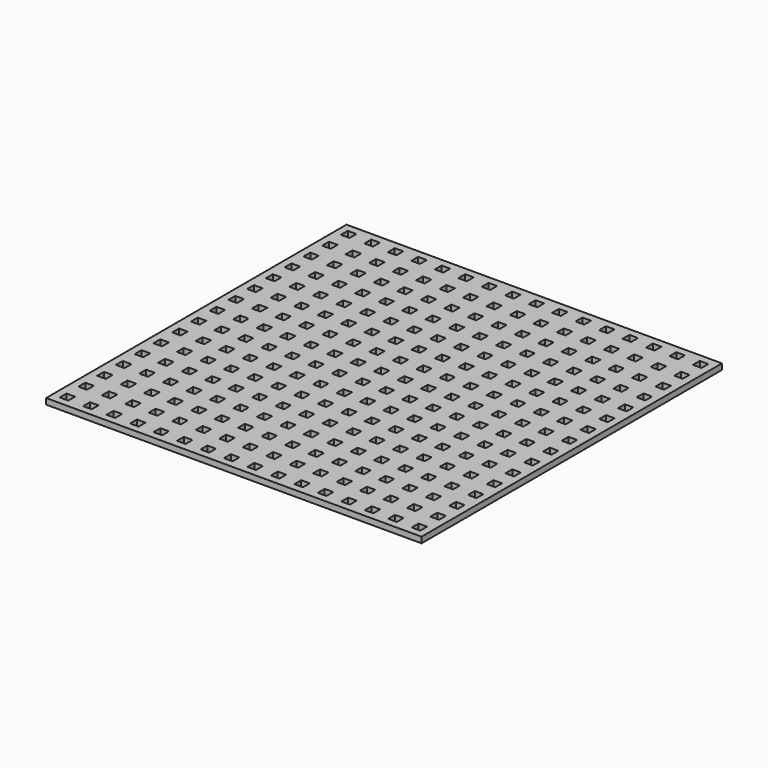
from build123d import *

# Parameters (mm, degrees)
F0_W     = 203.2
F0_H     = 203.2
F0_W_2   = 4.6228
F0_H_2   = 4.6228
F1_DEPTH = 3.175


with BuildPart() as f1:
    # F0 (on Top) → F1 (new body)
    with BuildSketch(Plane.XY):
        with Locations((18.344503, 5.013681)):
            Rectangle(F0_W, F0_H)
        with Locations((-76.765776, -90.287023)):
            Rectangle(F0_W_2, F0_H_2, mode=Mode.SUBTRACT)
        with Locations((-64.065776, -90.287023)):
            Rectangle(F0_W_2, F0_H_2, mode=Mode.SUBTRACT)
        with Locations((-76.778477, -77.58703)):
            Rectangle(F0_W_2, F0_H_2, mode=Mode.SUBTRACT)
        with Locations((-64.078477, -77.58703)):
            Rectangle(F0_W_2, F0_H_2, mode=Mode.SUBTRACT)
        with Locations((-51.365776, -90.287023)):
            Rectangle(F0_W_2, F0_H_2, mode=Mode.SUBTRACT)
        with Locations((-38.665776, -90.287023)):
            Rectangle(F0_W_2, F0_H_2, mode=Mode.SUBTRACT)
        with Locations((-51.378477, -77.58703)):
            Rectangle(F0_W_2, F0_H_2, mode=Mode.SUBTRACT)
        with Locations((-38.678477, -77.58703)):
            Rectangle(F0_W_2, F0_H_2, mode=Mode.SUBTRACT)
        with Locations((-76.791179, -64.887036)):
            Rectangle(F0_W_2, F0_H_2, mode=Mode.SUBTRACT)
        with Locations((-64.091179, -64.887036)):
            Rectangle(F0_W_2, F0_H_2, mode=Mode.SUBTRACT)
        with Locations((-76.80388, -52.187042)):
            Rectangle(F0_W_2, F0_H_2, mode=Mode.SUBTRACT)
        with Locations((-64.10388, -52.187042)):
            Rectangle(F0_W_2, F0_H_2, mode=Mode.SUBTRACT)
        with Locations((-51.391179, -64.887036)):
            Rectangle(F0_W_2, F0_H_2, mode=Mode.SUBTRACT)
        with Locations((-38.691179, -64.887036)):
            Rectangle(F0_W_2, F0_H_2, mode=Mode.SUBTRACT)
        with Locations((-51.40388, -52.187042)):
            Rectangle(F0_W_2, F0_H_2, mode=Mode.SUBTRACT)
        with Locations((-38.70388, -52.187042)):
            Rectangle(F0_W_2, F0_H_2, mode=Mode.SUBTRACT)
        with Locations((-25.965776, -90.287023)):
            Rectangle(F0_W_2, F0_H_2, mode=Mode.SUBTRACT)
        with Locations((-13.265776, -90.287023)):
            Rectangle(F0_W_2, F0_H_2, mode=Mode.SUBTRACT)
        with Locations((-25.978477, -77.58703)):
            Rectangle(F0_W_2, F0_H_2, mode=Mode.SUBTRACT)
        with Locations((-13.278477, -77.58703)):
            Rectangle(F0_W_2, F0_H_2, mode=Mode.SUBTRACT)
        with Locations((-0.565776, -90.287023)):
            Rectangle(F0_W_2, F0_H_2, mode=Mode.SUBTRACT)
        with Locations((12.134224, -90.287023)):
            Rectangle(F0_W_2, F0_H_2, mode=Mode.SUBTRACT)
        with Locations((-0.578477, -77.58703)):
            Rectangle(F0_W_2, F0_H_2, mode=Mode.SUBTRACT)
        with Locations((12.121523, -77.58703)):
            Rectangle(F0_W_2, F0_H_2, mode=Mode.SUBTRACT)
        with Locations((-25.991179, -64.887036)):
            Rectangle(F0_W_2, F0_H_2, mode=Mode.SUBTRACT)
        with Locations((-13.291179, -64.887036)):
            Rectangle(F0_W_2, F0_H_2, mode=Mode.SUBTRACT)
        with Locations((-26.00388, -52.187042)):
            Rectangle(F0_W_2, F0_H_2, mode=Mode.SUBTRACT)
        with Locations((-13.30388, -52.187042)):
            Rectangle(F0_W_2, F0_H_2, mode=Mode.SUBTRACT)
        with Locations((-0.591179, -64.887036)):
            Rectangle(F0_W_2, F0_H_2, mode=Mode.SUBTRACT)
        with Locations((12.108821, -64.887036)):
            Rectangle(F0_W_2, F0_H_2, mode=Mode.SUBTRACT)
        with Locations((-0.60388, -52.187042)):
            Rectangle(F0_W_2, F0_H_2, mode=Mode.SUBTRACT)
        with Locations((12.09612, -52.187042)):
            Rectangle(F0_W_2, F0_H_2, mode=Mode.SUBTRACT)
        with Locations((-76.816581, -39.487049)):
            Rectangle(F0_W_2, F0_H_2, mode=Mode.SUBTRACT)
        with Locations((-64.116581, -39.487049)):
            Rectangle(F0_W_2, F0_H_2, mode=Mode.SUBTRACT)
        with Locations((-76.829283, -26.787055)):
            Rectangle(F0_W_2, F0_H_2, mode=Mode.SUBTRACT)
        with Locations((-64.129283, -26.787055)):
            Rectangle(F0_W_2, F0_H_2, mode=Mode.SUBTRACT)
        with Locations((-51.416581, -39.487049)):
            Rectangle(F0_W_2, F0_H_2, mode=Mode.SUBTRACT)
        with Locations((-38.716581, -39.487049)):
            Rectangle(F0_W_2, F0_H_2, mode=Mode.SUBTRACT)
        with Locations((-51.429283, -26.787055)):
            Rectangle(F0_W_2, F0_H_2, mode=Mode.SUBTRACT)
        with Locations((-38.729283, -26.787055)):
            Rectangle(F0_W_2, F0_H_2, mode=Mode.SUBTRACT)
        with Locations((-76.841984, -14.087061)):
            Rectangle(F0_W_2, F0_H_2, mode=Mode.SUBTRACT)
        with Locations((-64.141984, -14.087061)):
            Rectangle(F0_W_2, F0_H_2, mode=Mode.SUBTRACT)
        with Locations((-76.854686, -1.387068)):
            Rectangle(F0_W_2, F0_H_2, mode=Mode.SUBTRACT)
        with Locations((-64.154686, -1.387068)):
            Rectangle(F0_W_2, F0_H_2, mode=Mode.SUBTRACT)
        with Locations((-51.441984, -14.087061)):
            Rectangle(F0_W_2, F0_H_2, mode=Mode.SUBTRACT)
        with Locations((-38.741984, -14.087061)):
            Rectangle(F0_W_2, F0_H_2, mode=Mode.SUBTRACT)
        with Locations((-51.454686, -1.387068)):
            Rectangle(F0_W_2, F0_H_2, mode=Mode.SUBTRACT)
        with Locations((-38.754686, -1.387068)):
            Rectangle(F0_W_2, F0_H_2, mode=Mode.SUBTRACT)
        with Locations((-26.016581, -39.487049)):
            Rectangle(F0_W_2, F0_H_2, mode=Mode.SUBTRACT)
        with Locations((-13.316581, -39.487049)):
            Rectangle(F0_W_2, F0_H_2, mode=Mode.SUBTRACT)
        with Locations((-26.029283, -26.787055)):
            Rectangle(F0_W_2, F0_H_2, mode=Mode.SUBTRACT)
        with Locations((-13.329283, -26.787055)):
            Rectangle(F0_W_2, F0_H_2, mode=Mode.SUBTRACT)
        with Locations((-0.616581, -39.487049)):
            Rectangle(F0_W_2, F0_H_2, mode=Mode.SUBTRACT)
        with Locations((12.083419, -39.487049)):
            Rectangle(F0_W_2, F0_H_2, mode=Mode.SUBTRACT)
        with Locations((-0.629283, -26.787055)):
            Rectangle(F0_W_2, F0_H_2, mode=Mode.SUBTRACT)
        with Locations((12.070717, -26.787055)):
            Rectangle(F0_W_2, F0_H_2, mode=Mode.SUBTRACT)
        with Locations((-26.041984, -14.087061)):
            Rectangle(F0_W_2, F0_H_2, mode=Mode.SUBTRACT)
        with Locations((-13.341984, -14.087061)):
            Rectangle(F0_W_2, F0_H_2, mode=Mode.SUBTRACT)
        with Locations((-26.054686, -1.387068)):
            Rectangle(F0_W_2, F0_H_2, mode=Mode.SUBTRACT)
        with Locations((-13.354686, -1.387068)):
            Rectangle(F0_W_2, F0_H_2, mode=Mode.SUBTRACT)
        with Locations((-0.641984, -14.087061)):
            Rectangle(F0_W_2, F0_H_2, mode=Mode.SUBTRACT)
        with Locations((12.058016, -14.087061)):
            Rectangle(F0_W_2, F0_H_2, mode=Mode.SUBTRACT)
        with Locations((-0.654686, -1.387068)):
            Rectangle(F0_W_2, F0_H_2, mode=Mode.SUBTRACT)
        with Locations((12.045314, -1.387068)):
            Rectangle(F0_W_2, F0_H_2, mode=Mode.SUBTRACT)
        with Locations((24.834224, -90.287023)):
            Rectangle(F0_W_2, F0_H_2, mode=Mode.SUBTRACT)
        with Locations((37.534224, -90.287023)):
            Rectangle(F0_W_2, F0_H_2, mode=Mode.SUBTRACT)
        with Locations((24.821523, -77.58703)):
            Rectangle(F0_W_2, F0_H_2, mode=Mode.SUBTRACT)
        with Locations((37.521523, -77.58703)):
            Rectangle(F0_W_2, F0_H_2, mode=Mode.SUBTRACT)
        with Locations((50.234224, -90.287023)):
            Rectangle(F0_W_2, F0_H_2, mode=Mode.SUBTRACT)
        with Locations((62.934224, -90.287023)):
            Rectangle(F0_W_2, F0_H_2, mode=Mode.SUBTRACT)
        with Locations((50.221523, -77.58703)):
            Rectangle(F0_W_2, F0_H_2, mode=Mode.SUBTRACT)
        with Locations((62.921523, -77.58703)):
            Rectangle(F0_W_2, F0_H_2, mode=Mode.SUBTRACT)
        with Locations((24.808821, -64.887036)):
            Rectangle(F0_W_2, F0_H_2, mode=Mode.SUBTRACT)
        with Locations((37.508821, -64.887036)):
            Rectangle(F0_W_2, F0_H_2, mode=Mode.SUBTRACT)
        with Locations((24.79612, -52.187042)):
            Rectangle(F0_W_2, F0_H_2, mode=Mode.SUBTRACT)
        with Locations((37.49612, -52.187042)):
            Rectangle(F0_W_2, F0_H_2, mode=Mode.SUBTRACT)
        with Locations((50.208821, -64.887036)):
            Rectangle(F0_W_2, F0_H_2, mode=Mode.SUBTRACT)
        with Locations((62.908821, -64.887036)):
            Rectangle(F0_W_2, F0_H_2, mode=Mode.SUBTRACT)
        with Locations((50.19612, -52.187042)):
            Rectangle(F0_W_2, F0_H_2, mode=Mode.SUBTRACT)
        with Locations((62.89612, -52.187042)):
            Rectangle(F0_W_2, F0_H_2, mode=Mode.SUBTRACT)
        with Locations((75.634224, -90.287023)):
            Rectangle(F0_W_2, F0_H_2, mode=Mode.SUBTRACT)
        with Locations((88.334224, -90.287023)):
            Rectangle(F0_W_2, F0_H_2, mode=Mode.SUBTRACT)
        with Locations((75.621523, -77.58703)):
            Rectangle(F0_W_2, F0_H_2, mode=Mode.SUBTRACT)
        with Locations((88.321523, -77.58703)):
            Rectangle(F0_W_2, F0_H_2, mode=Mode.SUBTRACT)
        with Locations((101.034224, -90.287023)):
            Rectangle(F0_W_2, F0_H_2, mode=Mode.SUBTRACT)
        with Locations((113.734224, -90.287023)):
            Rectangle(F0_W_2, F0_H_2, mode=Mode.SUBTRACT)
        with Locations((101.021523, -77.58703)):
            Rectangle(F0_W_2, F0_H_2, mode=Mode.SUBTRACT)
        with Locations((113.721523, -77.58703)):
            Rectangle(F0_W_2, F0_H_2, mode=Mode.SUBTRACT)
        with Locations((75.608821, -64.887036)):
            Rectangle(F0_W_2, F0_H_2, mode=Mode.SUBTRACT)
        with Locations((88.308821, -64.887036)):
            Rectangle(F0_W_2, F0_H_2, mode=Mode.SUBTRACT)
        with Locations((75.59612, -52.187042)):
            Rectangle(F0_W_2, F0_H_2, mode=Mode.SUBTRACT)
        with Locations((88.29612, -52.187042)):
            Rectangle(F0_W_2, F0_H_2, mode=Mode.SUBTRACT)
        with Locations((101.008821, -64.887036)):
            Rectangle(F0_W_2, F0_H_2, mode=Mode.SUBTRACT)
        with Locations((113.708821, -64.887036)):
            Rectangle(F0_W_2, F0_H_2, mode=Mode.SUBTRACT)
        with Locations((100.99612, -52.187042)):
            Rectangle(F0_W_2, F0_H_2, mode=Mode.SUBTRACT)
        with Locations((113.69612, -52.187042)):
            Rectangle(F0_W_2, F0_H_2, mode=Mode.SUBTRACT)
        with Locations((24.783419, -39.487049)):
            Rectangle(F0_W_2, F0_H_2, mode=Mode.SUBTRACT)
        with Locations((37.483419, -39.487049)):
            Rectangle(F0_W_2, F0_H_2, mode=Mode.SUBTRACT)
        with Locations((24.770717, -26.787055)):
            Rectangle(F0_W_2, F0_H_2, mode=Mode.SUBTRACT)
        with Locations((37.470717, -26.787055)):
            Rectangle(F0_W_2, F0_H_2, mode=Mode.SUBTRACT)
        with Locations((50.183419, -39.487049)):
            Rectangle(F0_W_2, F0_H_2, mode=Mode.SUBTRACT)
        with Locations((62.883419, -39.487049)):
            Rectangle(F0_W_2, F0_H_2, mode=Mode.SUBTRACT)
        with Locations((50.170717, -26.787055)):
            Rectangle(F0_W_2, F0_H_2, mode=Mode.SUBTRACT)
        with Locations((62.870717, -26.787055)):
            Rectangle(F0_W_2, F0_H_2, mode=Mode.SUBTRACT)
        with Locations((24.758016, -14.087061)):
            Rectangle(F0_W_2, F0_H_2, mode=Mode.SUBTRACT)
        with Locations((37.458016, -14.087061)):
            Rectangle(F0_W_2, F0_H_2, mode=Mode.SUBTRACT)
        with Locations((24.745314, -1.387068)):
            Rectangle(F0_W_2, F0_H_2, mode=Mode.SUBTRACT)
        with Locations((37.445314, -1.387068)):
            Rectangle(F0_W_2, F0_H_2, mode=Mode.SUBTRACT)
        with Locations((50.158016, -14.087061)):
            Rectangle(F0_W_2, F0_H_2, mode=Mode.SUBTRACT)
        with Locations((62.858016, -14.087061)):
            Rectangle(F0_W_2, F0_H_2, mode=Mode.SUBTRACT)
        with Locations((50.145314, -1.387068)):
            Rectangle(F0_W_2, F0_H_2, mode=Mode.SUBTRACT)
        with Locations((62.845314, -1.387068)):
            Rectangle(F0_W_2, F0_H_2, mode=Mode.SUBTRACT)
        with Locations((75.583419, -39.487049)):
            Rectangle(F0_W_2, F0_H_2, mode=Mode.SUBTRACT)
        with Locations((88.283419, -39.487049)):
            Rectangle(F0_W_2, F0_H_2, mode=Mode.SUBTRACT)
        with Locations((75.570717, -26.787055)):
            Rectangle(F0_W_2, F0_H_2, mode=Mode.SUBTRACT)
        with Locations((88.270717, -26.787055)):
            Rectangle(F0_W_2, F0_H_2, mode=Mode.SUBTRACT)
        with Locations((100.983419, -39.487049)):
            Rectangle(F0_W_2, F0_H_2, mode=Mode.SUBTRACT)
        with Locations((113.683419, -39.487049)):
            Rectangle(F0_W_2, F0_H_2, mode=Mode.SUBTRACT)
        with Locations((100.970717, -26.787055)):
            Rectangle(F0_W_2, F0_H_2, mode=Mode.SUBTRACT)
        with Locations((113.670717, -26.787055)):
            Rectangle(F0_W_2, F0_H_2, mode=Mode.SUBTRACT)
        with Locations((75.558016, -14.087061)):
            Rectangle(F0_W_2, F0_H_2, mode=Mode.SUBTRACT)
        with Locations((88.258016, -14.087061)):
            Rectangle(F0_W_2, F0_H_2, mode=Mode.SUBTRACT)
        with Locations((75.545314, -1.387068)):
            Rectangle(F0_W_2, F0_H_2, mode=Mode.SUBTRACT)
        with Locations((88.245314, -1.387068)):
            Rectangle(F0_W_2, F0_H_2, mode=Mode.SUBTRACT)
        with Locations((100.958016, -14.087061)):
            Rectangle(F0_W_2, F0_H_2, mode=Mode.SUBTRACT)
        with Locations((113.658016, -14.087061)):
            Rectangle(F0_W_2, F0_H_2, mode=Mode.SUBTRACT)
        with Locations((100.945314, -1.387068)):
            Rectangle(F0_W_2, F0_H_2, mode=Mode.SUBTRACT)
        with Locations((113.645314, -1.387068)):
            Rectangle(F0_W_2, F0_H_2, mode=Mode.SUBTRACT)
        with Locations((-76.867387, 11.312926)):
            Rectangle(F0_W_2, F0_H_2, mode=Mode.SUBTRACT)
        with Locations((-64.167387, 11.312926)):
            Rectangle(F0_W_2, F0_H_2, mode=Mode.SUBTRACT)
        with Locations((-76.880089, 24.01292)):
            Rectangle(F0_W_2, F0_H_2, mode=Mode.SUBTRACT)
        with Locations((-64.180089, 24.01292)):
            Rectangle(F0_W_2, F0_H_2, mode=Mode.SUBTRACT)
        with Locations((-51.467387, 11.312926)):
            Rectangle(F0_W_2, F0_H_2, mode=Mode.SUBTRACT)
        with Locations((-38.767387, 11.312926)):
            Rectangle(F0_W_2, F0_H_2, mode=Mode.SUBTRACT)
        with Locations((-51.480089, 24.01292)):
            Rectangle(F0_W_2, F0_H_2, mode=Mode.SUBTRACT)
        with Locations((-38.780089, 24.01292)):
            Rectangle(F0_W_2, F0_H_2, mode=Mode.SUBTRACT)
        with Locations((-76.89279, 36.712913)):
            Rectangle(F0_W_2, F0_H_2, mode=Mode.SUBTRACT)
        with Locations((-64.19279, 36.712913)):
            Rectangle(F0_W_2, F0_H_2, mode=Mode.SUBTRACT)
        with Locations((-76.905491, 49.412907)):
            Rectangle(F0_W_2, F0_H_2, mode=Mode.SUBTRACT)
        with Locations((-64.205491, 49.412907)):
            Rectangle(F0_W_2, F0_H_2, mode=Mode.SUBTRACT)
        with Locations((-51.49279, 36.712913)):
            Rectangle(F0_W_2, F0_H_2, mode=Mode.SUBTRACT)
        with Locations((-38.79279, 36.712913)):
            Rectangle(F0_W_2, F0_H_2, mode=Mode.SUBTRACT)
        with Locations((-51.505491, 49.412907)):
            Rectangle(F0_W_2, F0_H_2, mode=Mode.SUBTRACT)
        with Locations((-38.805491, 49.412907)):
            Rectangle(F0_W_2, F0_H_2, mode=Mode.SUBTRACT)
        with Locations((-26.067387, 11.312926)):
            Rectangle(F0_W_2, F0_H_2, mode=Mode.SUBTRACT)
        with Locations((-13.367387, 11.312926)):
            Rectangle(F0_W_2, F0_H_2, mode=Mode.SUBTRACT)
        with Locations((-26.080089, 24.01292)):
            Rectangle(F0_W_2, F0_H_2, mode=Mode.SUBTRACT)
        with Locations((-13.380089, 24.01292)):
            Rectangle(F0_W_2, F0_H_2, mode=Mode.SUBTRACT)
        with Locations((-0.667387, 11.312926)):
            Rectangle(F0_W_2, F0_H_2, mode=Mode.SUBTRACT)
        with Locations((12.032613, 11.312926)):
            Rectangle(F0_W_2, F0_H_2, mode=Mode.SUBTRACT)
        with Locations((-0.680089, 24.01292)):
            Rectangle(F0_W_2, F0_H_2, mode=Mode.SUBTRACT)
        with Locations((12.019911, 24.01292)):
            Rectangle(F0_W_2, F0_H_2, mode=Mode.SUBTRACT)
        with Locations((-26.09279, 36.712913)):
            Rectangle(F0_W_2, F0_H_2, mode=Mode.SUBTRACT)
        with Locations((-13.39279, 36.712913)):
            Rectangle(F0_W_2, F0_H_2, mode=Mode.SUBTRACT)
        with Locations((-26.105491, 49.412907)):
            Rectangle(F0_W_2, F0_H_2, mode=Mode.SUBTRACT)
        with Locations((-13.405491, 49.412907)):
            Rectangle(F0_W_2, F0_H_2, mode=Mode.SUBTRACT)
        with Locations((-0.69279, 36.712913)):
            Rectangle(F0_W_2, F0_H_2, mode=Mode.SUBTRACT)
        with Locations((12.00721, 36.712913)):
            Rectangle(F0_W_2, F0_H_2, mode=Mode.SUBTRACT)
        with Locations((-0.705491, 49.412907)):
            Rectangle(F0_W_2, F0_H_2, mode=Mode.SUBTRACT)
        with Locations((11.994509, 49.412907)):
            Rectangle(F0_W_2, F0_H_2, mode=Mode.SUBTRACT)
        with Locations((-76.918193, 62.112901)):
            Rectangle(F0_W_2, F0_H_2, mode=Mode.SUBTRACT)
        with Locations((-64.218193, 62.112901)):
            Rectangle(F0_W_2, F0_H_2, mode=Mode.SUBTRACT)
        with Locations((-76.930894, 74.812894)):
            Rectangle(F0_W_2, F0_H_2, mode=Mode.SUBTRACT)
        with Locations((-64.230894, 74.812894)):
            Rectangle(F0_W_2, F0_H_2, mode=Mode.SUBTRACT)
        with Locations((-51.518193, 62.112901)):
            Rectangle(F0_W_2, F0_H_2, mode=Mode.SUBTRACT)
        with Locations((-38.818193, 62.112901)):
            Rectangle(F0_W_2, F0_H_2, mode=Mode.SUBTRACT)
        with Locations((-51.530894, 74.812894)):
            Rectangle(F0_W_2, F0_H_2, mode=Mode.SUBTRACT)
        with Locations((-38.830894, 74.812894)):
            Rectangle(F0_W_2, F0_H_2, mode=Mode.SUBTRACT)
        with Locations((-76.943596, 87.512888)):
            Rectangle(F0_W_2, F0_H_2, mode=Mode.SUBTRACT)
        with Locations((-64.243596, 87.512888)):
            Rectangle(F0_W_2, F0_H_2, mode=Mode.SUBTRACT)
        with Locations((-76.956297, 100.212881)):
            Rectangle(F0_W_2, F0_H_2, mode=Mode.SUBTRACT)
        with Locations((-64.256297, 100.212881)):
            Rectangle(F0_W_2, F0_H_2, mode=Mode.SUBTRACT)
        with Locations((-51.543596, 87.512888)):
            Rectangle(F0_W_2, F0_H_2, mode=Mode.SUBTRACT)
        with Locations((-38.843596, 87.512888)):
            Rectangle(F0_W_2, F0_H_2, mode=Mode.SUBTRACT)
        with Locations((-51.556297, 100.212881)):
            Rectangle(F0_W_2, F0_H_2, mode=Mode.SUBTRACT)
        with Locations((-38.856297, 100.212881)):
            Rectangle(F0_W_2, F0_H_2, mode=Mode.SUBTRACT)
        with Locations((-26.118193, 62.112901)):
            Rectangle(F0_W_2, F0_H_2, mode=Mode.SUBTRACT)
        with Locations((-13.418193, 62.112901)):
            Rectangle(F0_W_2, F0_H_2, mode=Mode.SUBTRACT)
        with Locations((-26.130894, 74.812894)):
            Rectangle(F0_W_2, F0_H_2, mode=Mode.SUBTRACT)
        with Locations((-13.430894, 74.812894)):
            Rectangle(F0_W_2, F0_H_2, mode=Mode.SUBTRACT)
        with Locations((-0.718193, 62.112901)):
            Rectangle(F0_W_2, F0_H_2, mode=Mode.SUBTRACT)
        with Locations((11.981807, 62.112901)):
            Rectangle(F0_W_2, F0_H_2, mode=Mode.SUBTRACT)
        with Locations((-0.730894, 74.812894)):
            Rectangle(F0_W_2, F0_H_2, mode=Mode.SUBTRACT)
        with Locations((11.969106, 74.812894)):
            Rectangle(F0_W_2, F0_H_2, mode=Mode.SUBTRACT)
        with Locations((-26.143596, 87.512888)):
            Rectangle(F0_W_2, F0_H_2, mode=Mode.SUBTRACT)
        with Locations((-13.443596, 87.512888)):
            Rectangle(F0_W_2, F0_H_2, mode=Mode.SUBTRACT)
        with Locations((-26.156297, 100.212881)):
            Rectangle(F0_W_2, F0_H_2, mode=Mode.SUBTRACT)
        with Locations((-13.456297, 100.212881)):
            Rectangle(F0_W_2, F0_H_2, mode=Mode.SUBTRACT)
        with Locations((-0.743596, 87.512888)):
            Rectangle(F0_W_2, F0_H_2, mode=Mode.SUBTRACT)
        with Locations((11.956404, 87.512888)):
            Rectangle(F0_W_2, F0_H_2, mode=Mode.SUBTRACT)
        with Locations((-0.756297, 100.212881)):
            Rectangle(F0_W_2, F0_H_2, mode=Mode.SUBTRACT)
        with Locations((11.943703, 100.212881)):
            Rectangle(F0_W_2, F0_H_2, mode=Mode.SUBTRACT)
        with Locations((24.732613, 11.312926)):
            Rectangle(F0_W_2, F0_H_2, mode=Mode.SUBTRACT)
        with Locations((37.432613, 11.312926)):
            Rectangle(F0_W_2, F0_H_2, mode=Mode.SUBTRACT)
        with Locations((24.719911, 24.01292)):
            Rectangle(F0_W_2, F0_H_2, mode=Mode.SUBTRACT)
        with Locations((37.419911, 24.01292)):
            Rectangle(F0_W_2, F0_H_2, mode=Mode.SUBTRACT)
        with Locations((50.132613, 11.312926)):
            Rectangle(F0_W_2, F0_H_2, mode=Mode.SUBTRACT)
        with Locations((62.832613, 11.312926)):
            Rectangle(F0_W_2, F0_H_2, mode=Mode.SUBTRACT)
        with Locations((50.119911, 24.01292)):
            Rectangle(F0_W_2, F0_H_2, mode=Mode.SUBTRACT)
        with Locations((62.819911, 24.01292)):
            Rectangle(F0_W_2, F0_H_2, mode=Mode.SUBTRACT)
        with Locations((24.70721, 36.712913)):
            Rectangle(F0_W_2, F0_H_2, mode=Mode.SUBTRACT)
        with Locations((37.40721, 36.712913)):
            Rectangle(F0_W_2, F0_H_2, mode=Mode.SUBTRACT)
        with Locations((24.694509, 49.412907)):
            Rectangle(F0_W_2, F0_H_2, mode=Mode.SUBTRACT)
        with Locations((37.394509, 49.412907)):
            Rectangle(F0_W_2, F0_H_2, mode=Mode.SUBTRACT)
        with Locations((50.10721, 36.712913)):
            Rectangle(F0_W_2, F0_H_2, mode=Mode.SUBTRACT)
        with Locations((62.80721, 36.712913)):
            Rectangle(F0_W_2, F0_H_2, mode=Mode.SUBTRACT)
        with Locations((50.094509, 49.412907)):
            Rectangle(F0_W_2, F0_H_2, mode=Mode.SUBTRACT)
        with Locations((62.794509, 49.412907)):
            Rectangle(F0_W_2, F0_H_2, mode=Mode.SUBTRACT)
        with Locations((75.532613, 11.312926)):
            Rectangle(F0_W_2, F0_H_2, mode=Mode.SUBTRACT)
        with Locations((88.232613, 11.312926)):
            Rectangle(F0_W_2, F0_H_2, mode=Mode.SUBTRACT)
        with Locations((75.519911, 24.01292)):
            Rectangle(F0_W_2, F0_H_2, mode=Mode.SUBTRACT)
        with Locations((88.219911, 24.01292)):
            Rectangle(F0_W_2, F0_H_2, mode=Mode.SUBTRACT)
        with Locations((100.932613, 11.312926)):
            Rectangle(F0_W_2, F0_H_2, mode=Mode.SUBTRACT)
        with Locations((113.632613, 11.312926)):
            Rectangle(F0_W_2, F0_H_2, mode=Mode.SUBTRACT)
        with Locations((100.919911, 24.01292)):
            Rectangle(F0_W_2, F0_H_2, mode=Mode.SUBTRACT)
        with Locations((113.619911, 24.01292)):
            Rectangle(F0_W_2, F0_H_2, mode=Mode.SUBTRACT)
        with Locations((75.50721, 36.712913)):
            Rectangle(F0_W_2, F0_H_2, mode=Mode.SUBTRACT)
        with Locations((88.20721, 36.712913)):
            Rectangle(F0_W_2, F0_H_2, mode=Mode.SUBTRACT)
        with Locations((75.494509, 49.412907)):
            Rectangle(F0_W_2, F0_H_2, mode=Mode.SUBTRACT)
        with Locations((88.194509, 49.412907)):
            Rectangle(F0_W_2, F0_H_2, mode=Mode.SUBTRACT)
        with Locations((100.90721, 36.712913)):
            Rectangle(F0_W_2, F0_H_2, mode=Mode.SUBTRACT)
        with Locations((113.60721, 36.712913)):
            Rectangle(F0_W_2, F0_H_2, mode=Mode.SUBTRACT)
        with Locations((100.894509, 49.412907)):
            Rectangle(F0_W_2, F0_H_2, mode=Mode.SUBTRACT)
        with Locations((113.594509, 49.412907)):
            Rectangle(F0_W_2, F0_H_2, mode=Mode.SUBTRACT)
        with Locations((24.681807, 62.112901)):
            Rectangle(F0_W_2, F0_H_2, mode=Mode.SUBTRACT)
        with Locations((37.381807, 62.112901)):
            Rectangle(F0_W_2, F0_H_2, mode=Mode.SUBTRACT)
        with Locations((24.669106, 74.812894)):
            Rectangle(F0_W_2, F0_H_2, mode=Mode.SUBTRACT)
        with Locations((37.369106, 74.812894)):
            Rectangle(F0_W_2, F0_H_2, mode=Mode.SUBTRACT)
        with Locations((50.081807, 62.112901)):
            Rectangle(F0_W_2, F0_H_2, mode=Mode.SUBTRACT)
        with Locations((62.781807, 62.112901)):
            Rectangle(F0_W_2, F0_H_2, mode=Mode.SUBTRACT)
        with Locations((50.069106, 74.812894)):
            Rectangle(F0_W_2, F0_H_2, mode=Mode.SUBTRACT)
        with Locations((62.769106, 74.812894)):
            Rectangle(F0_W_2, F0_H_2, mode=Mode.SUBTRACT)
        with Locations((24.656404, 87.512888)):
            Rectangle(F0_W_2, F0_H_2, mode=Mode.SUBTRACT)
        with Locations((37.356404, 87.512888)):
            Rectangle(F0_W_2, F0_H_2, mode=Mode.SUBTRACT)
        with Locations((24.643703, 100.212881)):
            Rectangle(F0_W_2, F0_H_2, mode=Mode.SUBTRACT)
        with Locations((37.343703, 100.212881)):
            Rectangle(F0_W_2, F0_H_2, mode=Mode.SUBTRACT)
        with Locations((50.056404, 87.512888)):
            Rectangle(F0_W_2, F0_H_2, mode=Mode.SUBTRACT)
        with Locations((62.756404, 87.512888)):
            Rectangle(F0_W_2, F0_H_2, mode=Mode.SUBTRACT)
        with Locations((50.043703, 100.212881)):
            Rectangle(F0_W_2, F0_H_2, mode=Mode.SUBTRACT)
        with Locations((62.743703, 100.212881)):
            Rectangle(F0_W_2, F0_H_2, mode=Mode.SUBTRACT)
        with Locations((75.481807, 62.112901)):
            Rectangle(F0_W_2, F0_H_2, mode=Mode.SUBTRACT)
        with Locations((88.181807, 62.112901)):
            Rectangle(F0_W_2, F0_H_2, mode=Mode.SUBTRACT)
        with Locations((75.469106, 74.812894)):
            Rectangle(F0_W_2, F0_H_2, mode=Mode.SUBTRACT)
        with Locations((88.169106, 74.812894)):
            Rectangle(F0_W_2, F0_H_2, mode=Mode.SUBTRACT)
        with Locations((100.881807, 62.112901)):
            Rectangle(F0_W_2, F0_H_2, mode=Mode.SUBTRACT)
        with Locations((113.581807, 62.112901)):
            Rectangle(F0_W_2, F0_H_2, mode=Mode.SUBTRACT)
        with Locations((100.869106, 74.812894)):
            Rectangle(F0_W_2, F0_H_2, mode=Mode.SUBTRACT)
        with Locations((113.569106, 74.812894)):
            Rectangle(F0_W_2, F0_H_2, mode=Mode.SUBTRACT)
        with Locations((75.456404, 87.512888)):
            Rectangle(F0_W_2, F0_H_2, mode=Mode.SUBTRACT)
        with Locations((88.156404, 87.512888)):
            Rectangle(F0_W_2, F0_H_2, mode=Mode.SUBTRACT)
        with Locations((75.443703, 100.212881)):
            Rectangle(F0_W_2, F0_H_2, mode=Mode.SUBTRACT)
        with Locations((88.143703, 100.212881)):
            Rectangle(F0_W_2, F0_H_2, mode=Mode.SUBTRACT)
        with Locations((100.856404, 87.512888)):
            Rectangle(F0_W_2, F0_H_2, mode=Mode.SUBTRACT)
        with Locations((113.556404, 87.512888)):
            Rectangle(F0_W_2, F0_H_2, mode=Mode.SUBTRACT)
        with Locations((100.843703, 100.212881)):
            Rectangle(F0_W_2, F0_H_2, mode=Mode.SUBTRACT)
        with Locations((113.543703, 100.212881)):
            Rectangle(F0_W_2, F0_H_2, mode=Mode.SUBTRACT)
    extrude(amount=F1_DEPTH)


solid = f1.part
